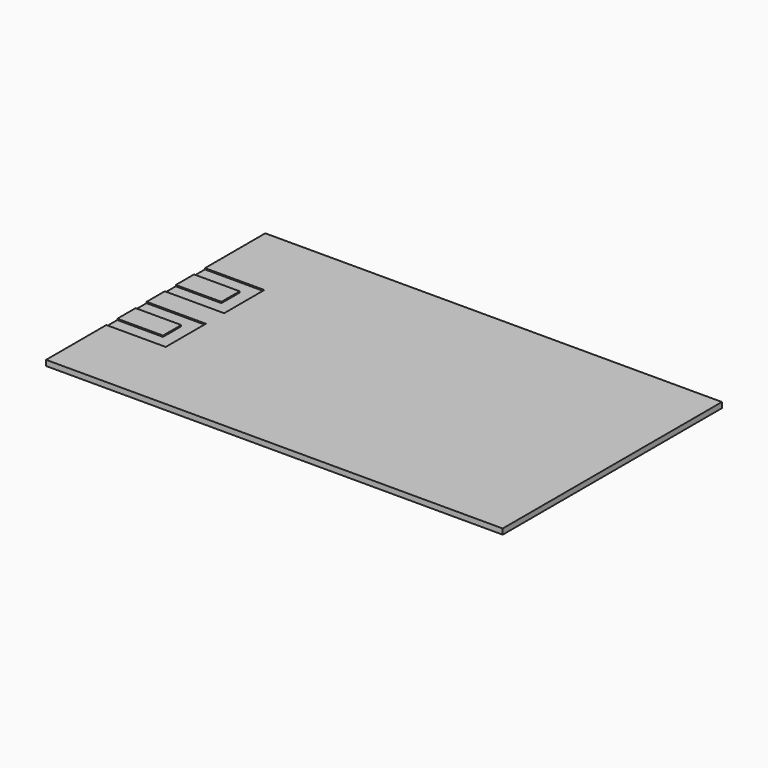
from build123d import *

# Parameters (mm, degrees)
F0_W     = 12.7
F0_H     = 6.35
F1_DEPTH = 1.524
F2_DEPTH = 1.1938


with BuildPart() as f1:
    # F0 (on Top) → F1 (new body)
    with BuildSketch(Plane.XY):
        Polygon((-63.5, -38.1), (63.5, -38.1), (63.5, 38.1), (-63.5, 38.1), (-63.5, 17.145), (-46.99, 17.145), (-46.99, 3.175), (-63.5, 3.175), (-63.5, -3.175), (-46.99, -3.175), (-46.99, -17.145), (-63.5, -17.145), align=None)
        with Locations((-57.15, -10.16)):
            Rectangle(F0_W, F0_H)
        with Locations((-57.15, 10.16)):
            Rectangle(F0_W, F0_H)
    extrude(amount=F1_DEPTH)

    # F0 (on Top) → F2 (join)
    with BuildSketch(Plane.XY):
        Polygon((-63.5, -13.335), (-63.5, -17.145), (-46.99, -17.145), (-46.99, -3.175), (-63.5, -3.175), (-63.5, -6.985), (-50.8, -6.985), (-50.8, -13.335), align=None)
        Polygon((-46.99, 17.145), (-63.5, 17.145), (-63.5, 13.335), (-50.8, 13.335), (-50.8, 6.985), (-63.5, 6.985), (-63.5, 3.175), (-46.99, 3.175), align=None)
    extrude(amount=F2_DEPTH)


solid = f1.part
